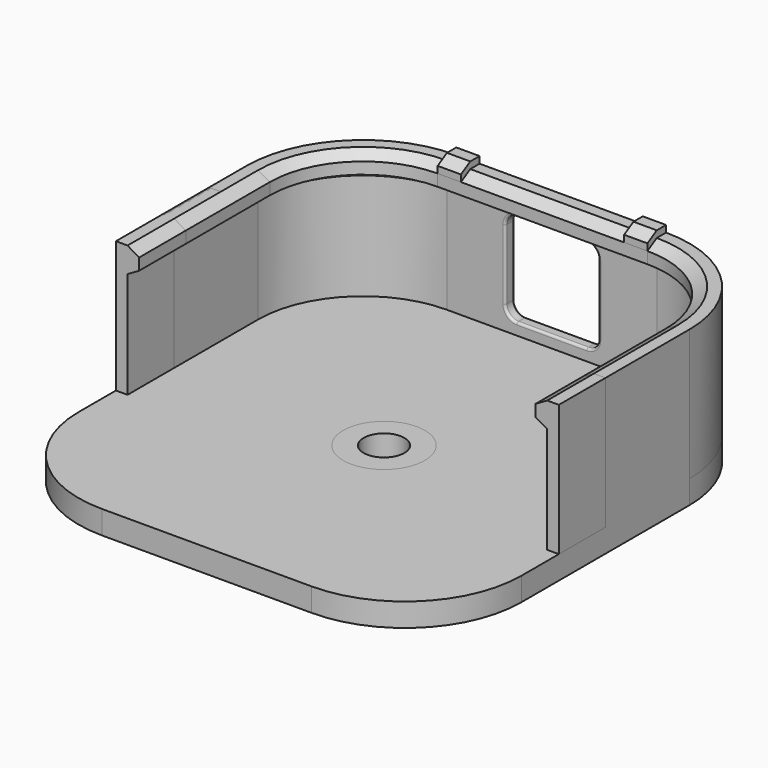
from build123d import *

# Parameters (mm, degrees)
SKETCH_W            = 38
SKETCH_H            = 38
PAD_DEPTH           = 2
FILLET_R            = 10
PAD001_DEPTH        = 5
SKETCH002_R         = 1.75
HOLE_DEPTH          = 4.125
PAD002_DEPTH        = 1
SKETCH006_W         = 38
SKETCH006_H         = 38
PAD005_DEPTH        = 2
FILLET001_R         = 10
HOLE001_D           = 3.5
HOLE001_DEPTH       = 4.13
HOLE001_CSINK_D     = 7
HOLE001_CSINK_ANGLE = 90
SKETCH009_W         = 8
SKETCH009_H         = 8
POCKET_DEPTH        = 1.001
FILLET002_R         = 1
FILLET003_R         = 0.2


with BuildPart() as body:
    # Sketch → Pad (new body)
    with BuildSketch(Plane.XY):
        Rectangle(SKETCH_W, SKETCH_H)
    extrude(amount=PAD_DEPTH)

    # Fillet
    fillet_edges = [body.edges().sort_by_distance(p)[0] for p in [
        (19, -19, 1),
        (-19, -19, 1),
        (19, 19, 1),
        (-19, 19, 1),
    ]]
    fillet(fillet_edges, radius=FILLET_R)

    # Sketch001 → Pad001 (join, symmetric)
    with BuildSketch(Plane.XZ):
        Polygon((19, 2), (19, 13.27735), (18, 13.27735), (17, 12.7), (17, 11.7), (18, 11.12265), (18, 2), align=None)
    pad001 = extrude(amount=PAD001_DEPTH, both=True)

    # Mirrored: Pad001 across YZ
    add(pad001.mirror(Plane.YZ))

    # Sketch002 (on Face5 of Mirrored) → Hole (cut)
    with BuildSketch(Plane.XY.offset(2)):
        Circle(SKETCH002_R)
    extrude(amount=-HOLE_DEPTH, mode=Mode.SUBTRACT)

    # Sketch003 (on DatumPlane) → Pad002 (join, symmetric)
    with BuildSketch(Plane.YZ.offset(8)):
        Polygon((19, 2), (19, 13.854701), (18, 13.854701), (17, 13.27735), (17, 12.27735), (18, 11.7), (18, 2), align=None)
    pad002 = extrude(amount=PAD002_DEPTH, both=True)

    # Mirrored001: Pad002 across YZ
    add(pad002.mirror(Plane.YZ))


with BuildPart() as body001:
    # Sketch006 → Pad005 (new body)
    with BuildSketch(Plane.XY):
        Rectangle(SKETCH006_W, SKETCH006_H)
    extrude(amount=PAD005_DEPTH)

    # Fillet001
    fillet001_edges = [body001.edges().sort_by_distance(p)[0] for p in [
        (19, -19, 1),
        (-19, -19, 1),
        (19, 19, 1),
        (-19, 19, 1),
    ]]
    fillet(fillet001_edges, radius=FILLET001_R)

    # AdditivePipe: sweep along a path in Sketch007
    with BuildLine(Plane.XY.offset(2)) as additivepipe_path:
        Line((19, 0), (19, 9))
        ThreePointArc((19, 9), (16.071068, 16.071068), (9, 19))
        Line((9, 19), (-9, 19))
        ThreePointArc((-9, 19), (-16.071068, 16.071068), (-19, 9))
        Line((-19, 9), (-19, 0))
    # Sketch004 → AdditivePipe (sweep)
    with BuildSketch(Plane.XZ):
        Polygon((19, 2), (19, 13.27735), (18, 13.27735), (17, 12.7), (17, 11.7), (18, 11.12265), (18, 2), align=None)
    sweep(path=additivepipe_path.line)

    # Hole001
    with Locations(Plane.XY.offset(2)):
        with Locations((0, 0)):
            CounterSinkHole(HOLE001_D / 2, HOLE001_CSINK_D / 2, depth=HOLE001_DEPTH, counter_sink_angle=HOLE001_CSINK_ANGLE)

    # Sketch009 (on Face17 of Hole001) → Pocket (cut, through all)
    with BuildSketch(Plane.XZ.offset(-18)):
        with Locations((0, 7)):
            Rectangle(SKETCH009_W, SKETCH009_H)
    extrude(amount=-POCKET_DEPTH, mode=Mode.SUBTRACT)

    # Fillet002
    fillet002_edges = [body001.edges().sort_by_distance(p)[0] for p in [
        (4, 18.5, 3),
        (-4, 18.5, 3),
        (4, 18.5, 11),
        (-4, 18.5, 11),
    ]]
    fillet(fillet002_edges, radius=FILLET002_R)

    # Fillet003
    fillet003_edges = [body001.edges().sort_by_distance(p)[0] for p in [
        (-4, 18, 7),
        (-3.707107, 18, 10.707107),
        (0, 18, 11),
        (3.707107, 18, 10.707107),
        (4, 18, 7),
        (3.707107, 18, 3.292893),
        (0, 18, 3),
        (-3.707107, 18, 3.292893),
        (0, 19, 11),
        (-3.707107, 19, 10.707107),
        (-4, 19, 7),
        (-3.707107, 19, 3.292893),
        (0, 19, 3),
        (3.707107, 19, 3.292893),
        (4, 19, 7),
        (3.707107, 19, 10.707107),
    ]]
    fillet(fillet003_edges, radius=FILLET003_R)


solid = Compound([body.part, body001.part])
